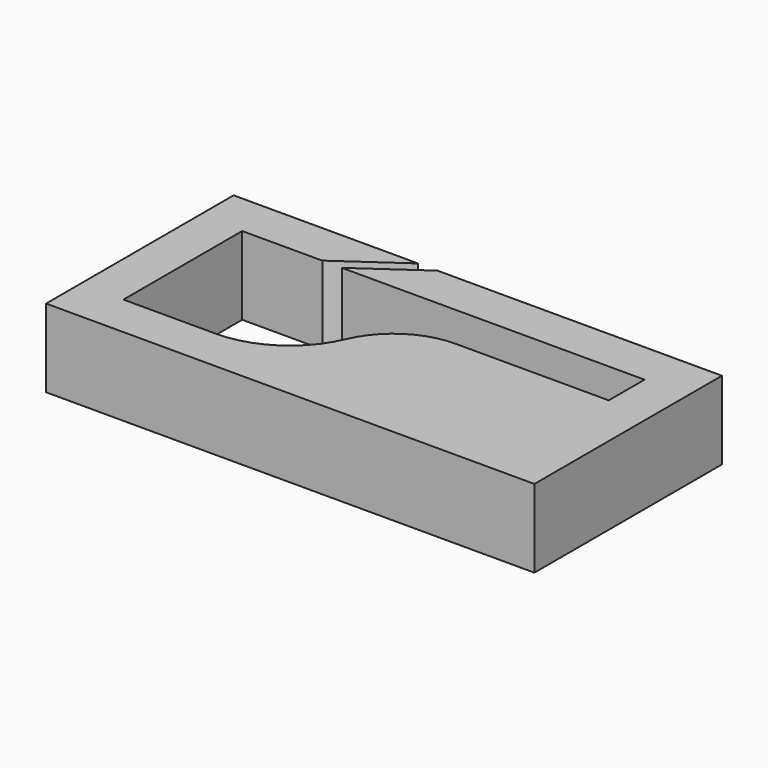
from build123d import *

# Parameters (mm, degrees)
F1_DEPTH = 4
F3_DEPTH = 0.8


with BuildPart() as f1:
    # F0 (on Top) → F1 (new body)
    with BuildSketch(Plane.XY):
        Polygon((-9.1288570138, -20.6640837675), (-18.5707826287, -20.6640837675), (-18.5707826287, -32.6640837675), (6.4292173713, -32.6640837675), (6.4292173713, -20.6640837675), (-8.1288570138, -20.6640837675), (-11.2707826287, -22.8640837675), (4.2292173713, -22.8640837675), (4.2292173713, -30.4640837675), (-16.3707826287, -30.4640837675), (-16.3707826287, -22.8640837675), (-12.2707826287, -22.8640837675), align=None)
    extrude(amount=F1_DEPTH)

    # F2 (on face) → F3 (join)
    with BuildSketch(Plane.XY.offset(4)):
        with BuildLine():
            ThreePointArc((-7.2837039026, -27.5826807615), (-9.0353563223, -29.6788503531), (-11.6517702118, -30.4640837675))
            Line((-11.6517702118, -30.4640837675), (4.2292173713, -30.4640837675))
            Line((4.2292173713, -30.4640837675), (4.2292173713, -25.1570476435))
            Line((4.2292173713, -25.1570476435), (-3.6065624964, -25.1570476435))
            ThreePointArc((-3.6065624964, -25.1570476435), (-5.8091215163, -25.8180756813), (-7.2837039026, -27.5826807615))
        make_face()
    extrude(amount=-F3_DEPTH)


solid = f1.part
